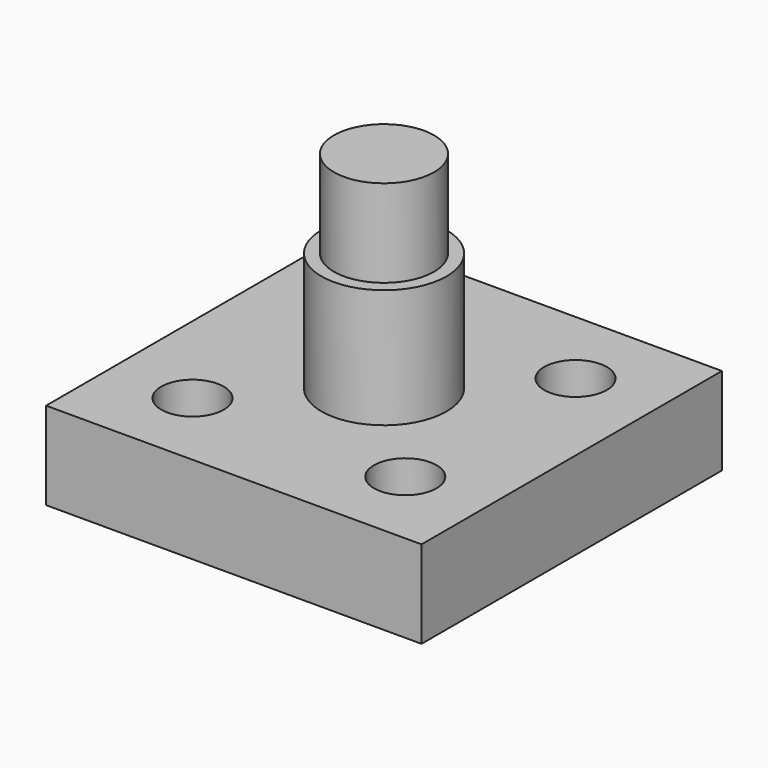
from build123d import *

# Parameters (mm, degrees)
F0_W     = 30
F0_H     = 30
F0_R     = 5
F1_DEPTH = 7
F0_R_2   = 4
F2_DEPTH = 16.5
F3_DEPTH = 23.5
F5_D     = 5


with BuildPart() as f1:
    # F0 (on Top) → F1 (new body)
    with BuildSketch(Plane.XY):
        Rectangle(F0_W, F0_H)
        Circle(F0_R, mode=Mode.SUBTRACT)
    extrude(amount=F1_DEPTH)

    # F0 (on Top) → F2 (join)
    with BuildSketch(Plane.XY):
        Circle(F0_R)
        Circle(F0_R_2, mode=Mode.SUBTRACT)
    extrude(amount=F2_DEPTH)

    # F0 (on Top) → F3 (join)
    with BuildSketch(Plane.XY):
        Circle(F0_R_2)
    extrude(amount=F3_DEPTH)

    # F5 (through all)
    with Locations(Plane.XY.offset(7)):
        with Locations((8.5, 8.5), (-8.5, 8.5), (-8.5, -8.5), (8.5, -8.5)):
            Hole(F5_D / 2)


solid = f1.part
